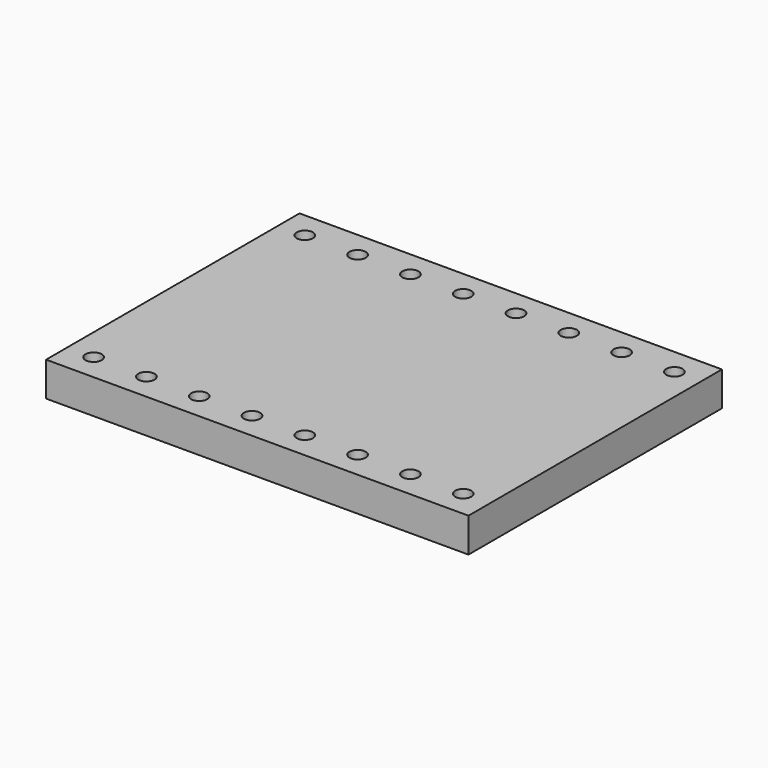
from build123d import *

# Parameters (mm, degrees)
SKETCH001_W         = 20.32
SKETCH001_H         = 15.24
PAD001_DEPTH        = 1.65
SKETCH002_R         = 0.39
POCKET_DEPTH        = 1.651
LINEARPATTERN_COUNT = 8
LINEARPATTERN_PITCH = 2.54


with BuildPart() as part:
    # Sketch001 → Pad001 (new body)
    with BuildSketch(Plane.XY):
        Rectangle(SKETCH001_W, SKETCH001_H)
    extrude(amount=PAD001_DEPTH)

    # Sketch002 (on Face6 of Pad001) → Pocket (cut, through all)
    with BuildSketch(Plane.XY.offset(1.65)):
        with Locations((-8.89, -6.35)):
            Circle(SKETCH002_R)
        with Locations((-8.89, 6.35)):
            Circle(SKETCH002_R)
    pocket = extrude(amount=-POCKET_DEPTH, mode=Mode.SUBTRACT)

    # LinearPattern: Pocket ×8
    with Locations(*[(i * LINEARPATTERN_PITCH, 0, 0) for i in range(1, LINEARPATTERN_COUNT)]):
        add(pocket, mode=Mode.SUBTRACT)


solid = part.part
